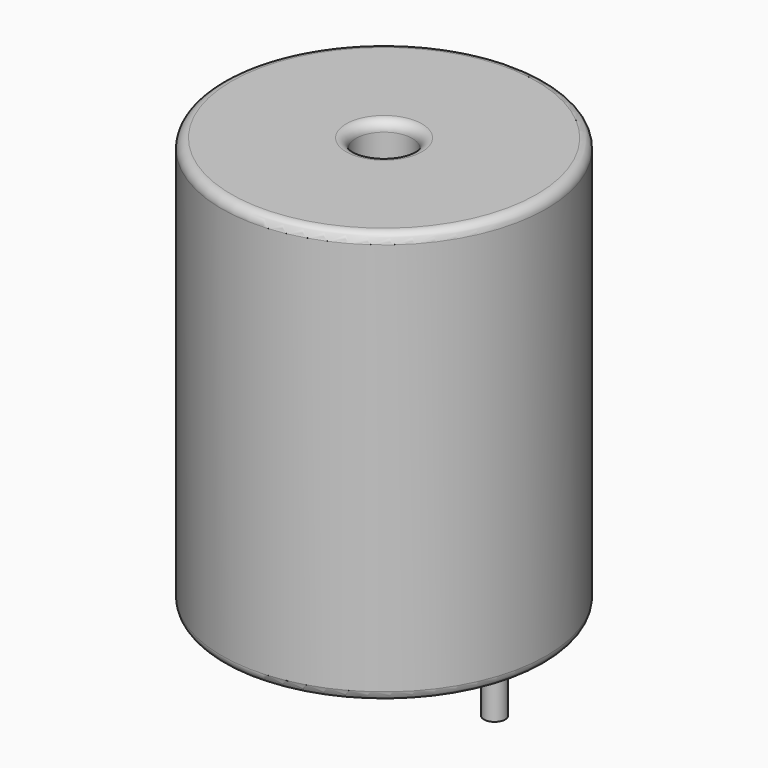
from build123d import *

# Parameters (mm, degrees)
SKETCH001_R       = 0.55
PAD001_DEPTH      = 10.67
PAD001_DEPTH_BACK = 3.5
SKETCH_R          = 8.4
SKETCH_R_2        = 1.46
PAD_DEPTH         = 21.34
FILLET_R          = 0.5


with BuildPart() as pad001:
    # Sketch001 → Pad001 (new body, two sides)
    with BuildSketch(Plane.XY.offset(0.5)) as pad001_sk:
        Circle(SKETCH001_R)
        with Locations((11.43, 0)):
            Circle(SKETCH001_R)
    extrude(amount=PAD001_DEPTH)
    extrude(pad001_sk.sketch, amount=-PAD001_DEPTH_BACK)


with BuildPart() as fillet_body:
    # Sketch → Pad (new body)
    with BuildSketch(Plane.XY.offset(0.1)):
        with Locations((5.715, 0)):
            Circle(SKETCH_R)
        with Locations((5.715, 0)):
            Circle(SKETCH_R_2, mode=Mode.SUBTRACT)
    extrude(amount=PAD_DEPTH)

    # Fillet
    fillet_edges = [fillet_body.edges().sort_by_distance(p)[0] for p in [
        (4.255, 0, 21.44),
        (-2.685, 0, 21.44),
        (-2.685, 0, 0.1),
    ]]
    fillet(fillet_edges, radius=FILLET_R)


solid = Compound([pad001.part, fillet_body.part])
